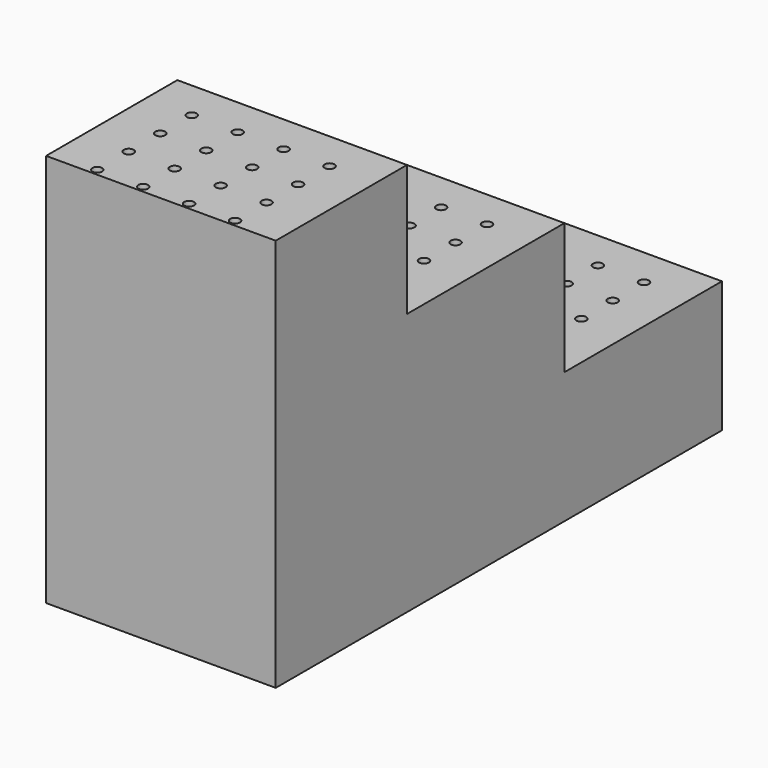
from build123d import *

# Parameters (mm, degrees)
SKETCH_W     = 70
SKETCH_H     = 170
PAD_DEPTH    = 40
SKETCH001_W  = 70
SKETCH001_H  = 110
PAD001_DEPTH = 40
SKETCH002_W  = 70
SKETCH002_H  = 50
PAD002_DEPTH = 40
SKETCH003_R  = 1.5
POCKET_DEPTH = 120.001


with BuildPart() as part:
    # Sketch → Pad (new body)
    with BuildSketch(Plane.XY):
        with Locations((-35, 85)):
            Rectangle(SKETCH_W, SKETCH_H)
    extrude(amount=PAD_DEPTH)

    # Sketch001 (on Face6 of Pad) → Pad001 (join)
    with BuildSketch(Plane.XY.offset(40)):
        with Locations((-35, 55)):
            Rectangle(SKETCH001_W, SKETCH001_H)
    extrude(amount=PAD001_DEPTH)

    # Sketch002 (on Face10 of Pad001) → Pad002 (join)
    with BuildSketch(Plane.XY.offset(80)):
        with Locations((-35, 25)):
            Rectangle(SKETCH002_W, SKETCH002_H)
    extrude(amount=PAD002_DEPTH)

    # Sketch003 (on Face4 of Pad002) → Pocket (cut, through all)
    with BuildSketch(Plane(origin=(0, 0, 0), x_dir=(1, 0, 0), z_dir=(0, 0, -1))):
        with Locations((-14, -122)):
            Circle(SKETCH003_R)
        with Locations((-14, -62)):
            Circle(SKETCH003_R)
        with Locations((-14, -2)):
            Circle(SKETCH003_R)
        with Locations((-14, -14)):
            Circle(SKETCH003_R)
        with Locations((-14, -26)):
            Circle(SKETCH003_R)
        with Locations((-14, -38)):
            Circle(SKETCH003_R)
        with Locations((-28, -2)):
            Circle(SKETCH003_R)
        with Locations((-28, -14)):
            Circle(SKETCH003_R)
        with Locations((-28, -26)):
            Circle(SKETCH003_R)
        with Locations((-28, -38)):
            Circle(SKETCH003_R)
        with Locations((-42, -2)):
            Circle(SKETCH003_R)
        with Locations((-42, -14)):
            Circle(SKETCH003_R)
        with Locations((-42, -26)):
            Circle(SKETCH003_R)
        with Locations((-42, -38)):
            Circle(SKETCH003_R)
        with Locations((-56, -2)):
            Circle(SKETCH003_R)
        with Locations((-56, -14)):
            Circle(SKETCH003_R)
        with Locations((-56, -26)):
            Circle(SKETCH003_R)
        with Locations((-56, -38)):
            Circle(SKETCH003_R)
        with Locations((-14, -74)):
            Circle(SKETCH003_R)
        with Locations((-14, -86)):
            Circle(SKETCH003_R)
        with Locations((-14, -98)):
            Circle(SKETCH003_R)
        with Locations((-28, -62)):
            Circle(SKETCH003_R)
        with Locations((-28, -74)):
            Circle(SKETCH003_R)
        with Locations((-28, -86)):
            Circle(SKETCH003_R)
        with Locations((-28, -98)):
            Circle(SKETCH003_R)
        with Locations((-42, -62)):
            Circle(SKETCH003_R)
        with Locations((-42, -74)):
            Circle(SKETCH003_R)
        with Locations((-42, -86)):
            Circle(SKETCH003_R)
        with Locations((-42, -98)):
            Circle(SKETCH003_R)
        with Locations((-56, -62)):
            Circle(SKETCH003_R)
        with Locations((-56, -74)):
            Circle(SKETCH003_R)
        with Locations((-56, -86)):
            Circle(SKETCH003_R)
        with Locations((-56, -98)):
            Circle(SKETCH003_R)
        with Locations((-14.050207, -133.999895)):
            Circle(SKETCH003_R)
        with Locations((-14.100414, -145.99979)):
            Circle(SKETCH003_R)
        with Locations((-14.150621, -157.999685)):
            Circle(SKETCH003_R)
        with Locations((-27.999877, -121.941425)):
            Circle(SKETCH003_R)
        with Locations((-28.050085, -133.94132)):
            Circle(SKETCH003_R)
        with Locations((-28.100292, -145.941215)):
            Circle(SKETCH003_R)
        with Locations((-28.150499, -157.94111)):
            Circle(SKETCH003_R)
        with Locations((-41.999755, -121.88285)):
            Circle(SKETCH003_R)
        with Locations((-42.049962, -133.882745)):
            Circle(SKETCH003_R)
        with Locations((-42.100169, -145.88264)):
            Circle(SKETCH003_R)
        with Locations((-42.150376, -157.882535)):
            Circle(SKETCH003_R)
        with Locations((-55.999632, -121.824275)):
            Circle(SKETCH003_R)
        with Locations((-56.049839, -133.82417)):
            Circle(SKETCH003_R)
        with Locations((-56.100046, -145.824065)):
            Circle(SKETCH003_R)
        with Locations((-56.150254, -157.82396)):
            Circle(SKETCH003_R)
    extrude(amount=-POCKET_DEPTH, mode=Mode.SUBTRACT)


solid = part.part
